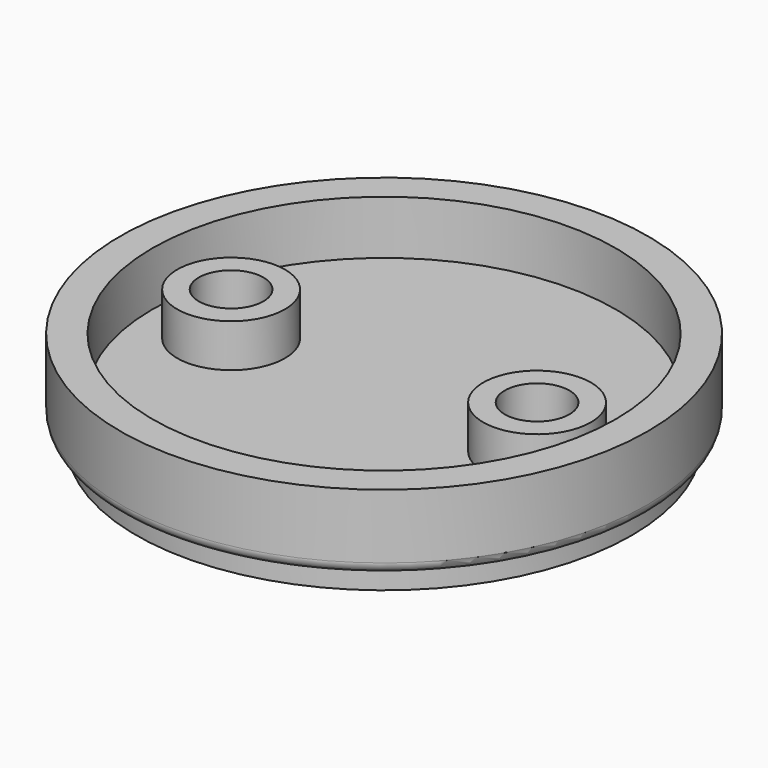
from build123d import *

# Parameters (mm, degrees)
F0_R     = 11.5
F1_DEPTH = 1
F2_R     = 12.25
F3_DEPTH = 3.5
F4_R     = 10.75
F5_DEPTH = 2.5
F6_R     = 0.508
F7_R     = 2.5
F7_R_2   = 1.5
F8_DEPTH = 2


with BuildPart() as f1:
    # F0 (on Top) → F1 (new body)
    with BuildSketch(Plane.XY):
        Circle(F0_R)
    extrude(amount=F1_DEPTH)

    # F2 (on face) → F3 (join)
    with BuildSketch(Plane.XY.offset(1)):
        Circle(F2_R)
    extrude(amount=F3_DEPTH)

    # F4 (on face) → F5 (cut)
    with BuildSketch(Plane.XY.offset(4.5)):
        Circle(F4_R)
    extrude(amount=-F5_DEPTH, mode=Mode.SUBTRACT)

    # F6
    f6_edges = [f1.edges().sort_by_distance(p)[0] for p in [
        (-12.25, 0, 1),
    ]]
    fillet(f6_edges, radius=F6_R)

    # F7 (on face) → F8 (join)
    with BuildSketch(Plane.XY.offset(2)):
        with Locations((-7.1, 0)):
            Circle(F7_R)
        with Locations((-7.1, 0)):
            Circle(F7_R_2, mode=Mode.SUBTRACT)
        with Locations((7.1, 0)):
            Circle(F7_R)
        with Locations((7.1, 0)):
            Circle(F7_R_2, mode=Mode.SUBTRACT)
    extrude(amount=F8_DEPTH)


solid = f1.part
